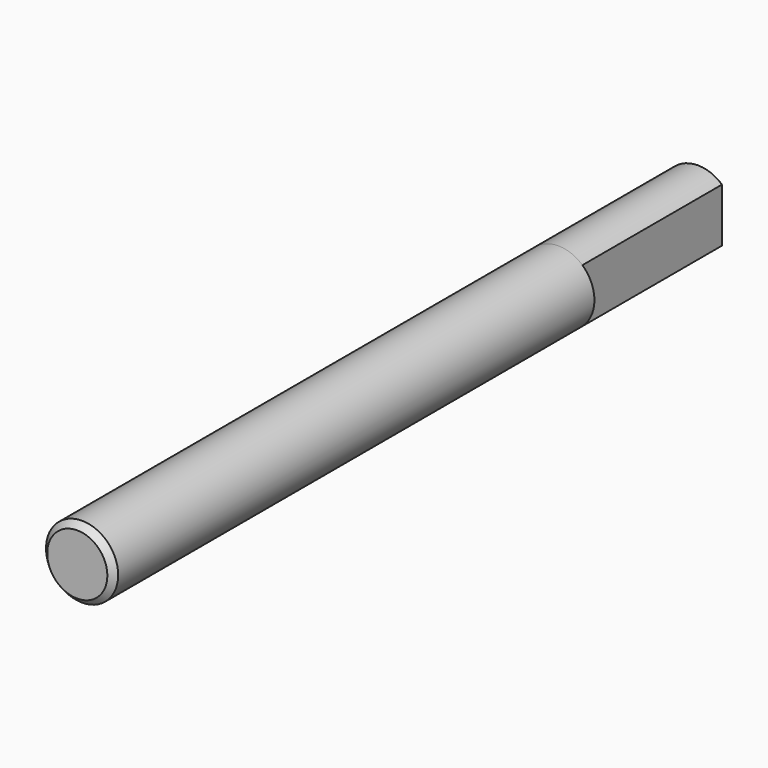
from build123d import *

# Parameters (mm, degrees)
F1_DEPTH = 15
F2_R     = 3
F3_DEPTH = 50
F4_SIZE  = 0.5
F7_D     = 2.4
F7_DEPTH = 20
F7_TIP   = 0.7210327428


with BuildPart() as f1:
    # F0 (on Front) → F1 (new body)
    with BuildSketch(Plane.XZ):
        with BuildLine():
            Line((-2, 2.2360679775), (-2, -2.2360679775))
            ThreePointArc((-2, -2.2360679775), (0, -3), (2, -2.2360679775))
            Line((2, -2.2360679775), (2, 2.2360679775))
            ThreePointArc((2, 2.2360679775), (0, 3), (-2, 2.2360679775))
        make_face()
    extrude(amount=-F1_DEPTH)

    # F2 (on Front) → F3 (join)
    with BuildSketch(Plane.XZ):
        Circle(F2_R)
    extrude(amount=F3_DEPTH)

    # F4
    f4_edges = [f1.edges().sort_by_distance(p)[0] for p in [
        (-3, -50, 0),
        (0, 15, 3),
        (-2, 15, 0),
        (0, 15, -3),
        (2, 15, 0),
    ]]
    chamfer(f4_edges, length=F4_SIZE)

    # F7
    with Locations(Plane(origin=(0, 15, 0), x_dir=(-1, 0, 0), z_dir=(0, 1, 0))):
        with Locations((0, 0)):
            Hole(F7_D / 2, depth=F7_DEPTH)
            with Locations((0, 0, -(F7_DEPTH + F7_TIP / 2))):  # 118° drill point
                Cone(0, F7_D / 2, F7_TIP, mode=Mode.SUBTRACT)


solid = f1.part
